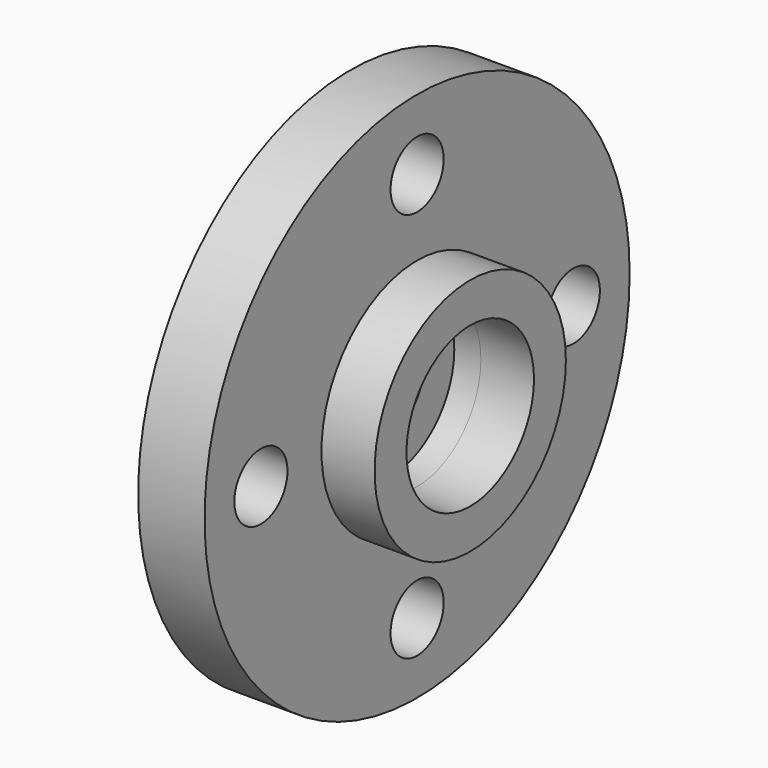
from build123d import *

# Parameters (mm, degrees)
SKETCH038_R     = 10
SKETCH038_R_2   = 1.55
SKETCH038_R_3   = 1.25
PAD034_DEPTH    = 2.5
SKETCH039_R     = 4.5
SKETCH039_R_2   = 3
PAD035_DEPTH    = 2
SKETCH040_R     = 3
POCKET011_DEPTH = 1


with BuildPart() as part:
    # Sketch038 → Pad034 (new body)
    with BuildSketch(Plane.YZ):
        Circle(SKETCH038_R)
        Circle(SKETCH038_R_2, mode=Mode.SUBTRACT)
        with Locations((-7.35, 0)):
            Circle(SKETCH038_R_3, mode=Mode.SUBTRACT)
        with Locations((0, -7.35)):
            Circle(SKETCH038_R_3, mode=Mode.SUBTRACT)
        with Locations((7.35, 0)):
            Circle(SKETCH038_R_3, mode=Mode.SUBTRACT)
        with Locations((0, 7.35)):
            Circle(SKETCH038_R_3, mode=Mode.SUBTRACT)
    extrude(amount=PAD034_DEPTH)

    # Sketch039 (on Face8 of Pad034) → Pad035 (join)
    with BuildSketch(Plane.YZ.offset(2.5)):
        Circle(SKETCH039_R)
        Circle(SKETCH039_R_2, mode=Mode.SUBTRACT)
    extrude(amount=PAD035_DEPTH)

    # Sketch040 (on Face10 of Pad035) → Pocket011 (cut)
    with BuildSketch(Plane.YZ.offset(2.5)):
        Circle(SKETCH040_R)
    extrude(amount=-POCKET011_DEPTH, mode=Mode.SUBTRACT)


with BuildPart() as part_1:
    # Body013 placement: moved
    add(part.part.moved(Location((-19.2, 11.3, 0))))


solid = part_1.part
